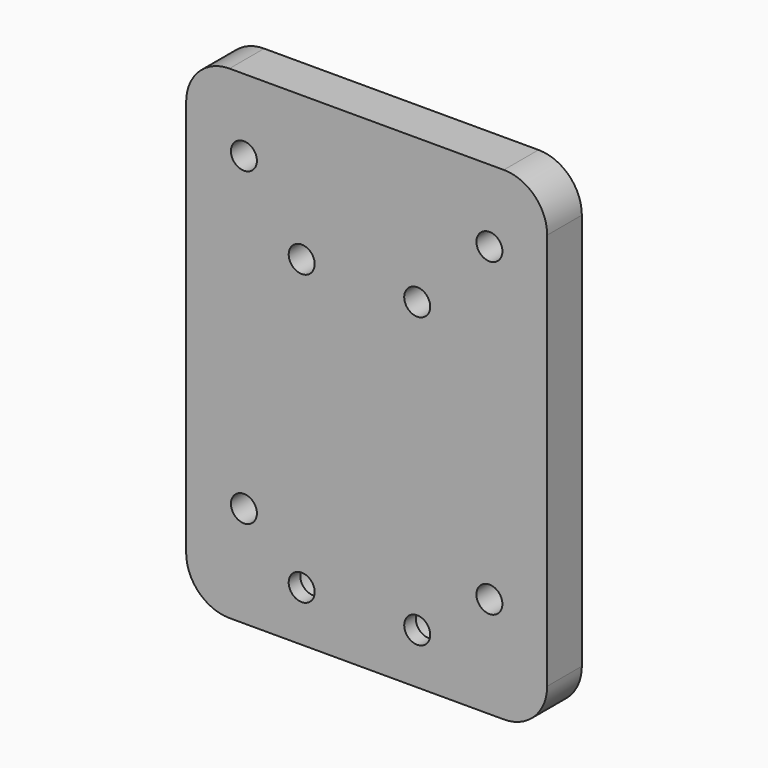
from build123d import *

# Parameters (mm, degrees)
CYLINDER135_R          = 1.8
CYLINDER135_DEPTH      = 34
CYLINDER135_ROLL_ANGLE = 90
CYLINDER134_R          = 1.8
CYLINDER134_DEPTH      = 34
CYLINDER134_ROLL_ANGLE = 90
CYLINDER137_R          = 3
CYLINDER137_DEPTH      = 34
CYLINDER137_ROLL_ANGLE = 90
CYLINDER136_R          = 3
CYLINDER136_DEPTH      = 34
CYLINDER136_ROLL_ANGLE = 90
CYLINDER123_R          = 1.8
CYLINDER123_DEPTH      = 34
CYLINDER123_ROLL_ANGLE = 90
CYLINDER122_R          = 1.8
CYLINDER122_DEPTH      = 34
CYLINDER122_ROLL_ANGLE = 90
CYLINDER125_R          = 1.8
CYLINDER125_DEPTH      = 34
CYLINDER125_ROLL_ANGLE = 90
CYLINDER124_R          = 1.8
CYLINDER124_DEPTH      = 34
CYLINDER124_ROLL_ANGLE = 90
CYLINDER127_R          = 3
CYLINDER127_DEPTH      = 34
CYLINDER127_ROLL_ANGLE = 90
CYLINDER126_R          = 3
CYLINDER126_DEPTH      = 34
CYLINDER126_ROLL_ANGLE = 90
CYLINDER129_R          = 3
CYLINDER129_DEPTH      = 34
CYLINDER129_ROLL_ANGLE = 90
CYLINDER128_R          = 3
CYLINDER128_DEPTH      = 34
CYLINDER128_ROLL_ANGLE = 90
CYLINDER131_R          = 1.8
CYLINDER131_DEPTH      = 34
CYLINDER131_ROLL_ANGLE = 90
CYLINDER130_R          = 1.8
CYLINDER130_DEPTH      = 34
CYLINDER130_ROLL_ANGLE = 90
CYLINDER133_R          = 1.8
CYLINDER133_DEPTH      = 34
CYLINDER133_ROLL_ANGLE = 90
CYLINDER132_R          = 1.8
CYLINDER132_DEPTH      = 34
CYLINDER132_ROLL_ANGLE = 90
BOX061_W               = 50
BOX061_H               = 6
BOX061_DEPTH           = 67
FILLET055_R            = 6


with BuildPart() as cilindro089:
    # Cylinder135 → Cylinder135 (new body)
    with BuildSketch(Plane.XY):
        Circle(CYLINDER135_R)
    extrude(amount=CYLINDER135_DEPTH)


with BuildPart() as cilindro089_1:
    # Cylinder135 roll: moved
    add(cilindro089.part.rotate(Axis((0, 0, 0), (1, 0, 0)), CYLINDER135_ROLL_ANGLE))


with BuildPart() as cilindro089_2:
    # Cylinder135 placement: moved
    add(cilindro089_1.part.moved(Location((24, -10, 64))))


with BuildPart() as fusion079:
    # Cylinder134 → Cylinder134 (new body)
    with BuildSketch(Plane.XY):
        Circle(CYLINDER134_R)
    extrude(amount=CYLINDER134_DEPTH)


with BuildPart() as fusion079_1:
    # Cylinder134 roll: moved
    add(fusion079.part.rotate(Axis((0, 0, 0), (1, 0, 0)), CYLINDER134_ROLL_ANGLE))


with BuildPart() as fusion079_2:
    # Cylinder134 placement: moved
    add(fusion079_1.part.moved(Location((40, -10, 64))))

    # Fusion079: union Cilindro089
    add(cilindro089_2.part)


with BuildPart() as fusion079_3:
    # Fusion079 placement: moved
    add(fusion079_2.part.moved(Location((0, 0, -8))))


with BuildPart() as cilindro091:
    # Cylinder137 → Cylinder137 (new body)
    with BuildSketch(Plane.XY):
        Circle(CYLINDER137_R)
    extrude(amount=CYLINDER137_DEPTH)


with BuildPart() as cilindro091_1:
    # Cylinder137 roll: moved
    add(cilindro091.part.rotate(Axis((0, 0, 0), (1, 0, 0)), CYLINDER137_ROLL_ANGLE))


with BuildPart() as cilindro091_2:
    # Cylinder137 placement: moved
    add(cilindro091_1.part.moved(Location((24, -10, 64))))


with BuildPart() as fusion080:
    # Cylinder136 → Cylinder136 (new body)
    with BuildSketch(Plane.XY):
        Circle(CYLINDER136_R)
    extrude(amount=CYLINDER136_DEPTH)


with BuildPart() as fusion080_1:
    # Cylinder136 roll: moved
    add(fusion080.part.rotate(Axis((0, 0, 0), (1, 0, 0)), CYLINDER136_ROLL_ANGLE))


with BuildPart() as fusion080_2:
    # Cylinder136 placement: moved
    add(fusion080_1.part.moved(Location((40, -10, 64))))

    # Fusion080: union Cilindro091
    add(cilindro091_2.part)


with BuildPart() as fusion080_3:
    # Fusion080 placement: moved
    add(fusion080_2.part.moved(Location((0, 23, -8))))


with BuildPart() as cilindro077:
    # Cylinder123 → Cylinder123 (new body)
    with BuildSketch(Plane.XY):
        Circle(CYLINDER123_R)
    extrude(amount=CYLINDER123_DEPTH)


with BuildPart() as cilindro077_1:
    # Cylinder123 roll: moved
    add(cilindro077.part.rotate(Axis((0, 0, 0), (1, 0, 0)), CYLINDER123_ROLL_ANGLE))


with BuildPart() as cilindro077_2:
    # Cylinder123 placement: moved
    add(cilindro077_1.part.moved(Location((24, -10, 64))))


with BuildPart() as fusion070:
    # Cylinder122 → Cylinder122 (new body)
    with BuildSketch(Plane.XY):
        Circle(CYLINDER122_R)
    extrude(amount=CYLINDER122_DEPTH)


with BuildPart() as fusion070_1:
    # Cylinder122 roll: moved
    add(fusion070.part.rotate(Axis((0, 0, 0), (1, 0, 0)), CYLINDER122_ROLL_ANGLE))


with BuildPart() as fusion070_2:
    # Cylinder122 placement: moved
    add(fusion070_1.part.moved(Location((40, -10, 64))))

    # Fusion070: union Cilindro077
    add(cilindro077_2.part)


with BuildPart() as fusion070_3:
    # Fusion070 placement: moved
    add(fusion070_2.part.moved(Location((0, 0, -8))))


with BuildPart() as cilindro079:
    # Cylinder125 → Cylinder125 (new body)
    with BuildSketch(Plane.XY):
        Circle(CYLINDER125_R)
    extrude(amount=CYLINDER125_DEPTH)


with BuildPart() as cilindro079_1:
    # Cylinder125 roll: moved
    add(cilindro079.part.rotate(Axis((0, 0, 0), (1, 0, 0)), CYLINDER125_ROLL_ANGLE))


with BuildPart() as cilindro079_2:
    # Cylinder125 placement: moved
    add(cilindro079_1.part.moved(Location((24, -10, 61))))


with BuildPart() as fusion072:
    # Cylinder124 → Cylinder124 (new body)
    with BuildSketch(Plane.XY):
        Circle(CYLINDER124_R)
    extrude(amount=CYLINDER124_DEPTH)


with BuildPart() as fusion072_1:
    # Cylinder124 roll: moved
    add(fusion072.part.rotate(Axis((0, 0, 0), (1, 0, 0)), CYLINDER124_ROLL_ANGLE))


with BuildPart() as fusion072_2:
    # Cylinder124 placement: moved
    add(fusion072_1.part.moved(Location((40, -10, 61))))

    # Fusion071: union Cilindro079
    add(cilindro079_2.part)


with BuildPart() as fusion072_3:
    # Fusion071 placement: moved
    add(fusion072_2.part.moved(Location((0, 0, 35))))

    # Fusion072: union Fusion070
    add(fusion070_3.part)


with BuildPart() as cilindro081:
    # Cylinder127 → Cylinder127 (new body)
    with BuildSketch(Plane.XY):
        Circle(CYLINDER127_R)
    extrude(amount=CYLINDER127_DEPTH)


with BuildPart() as cilindro081_1:
    # Cylinder127 roll: moved
    add(cilindro081.part.rotate(Axis((0, 0, 0), (1, 0, 0)), CYLINDER127_ROLL_ANGLE))


with BuildPart() as cilindro081_2:
    # Cylinder127 placement: moved
    add(cilindro081_1.part.moved(Location((24, -10, 64))))


with BuildPart() as fusion073:
    # Cylinder126 → Cylinder126 (new body)
    with BuildSketch(Plane.XY):
        Circle(CYLINDER126_R)
    extrude(amount=CYLINDER126_DEPTH)


with BuildPart() as fusion073_1:
    # Cylinder126 roll: moved
    add(fusion073.part.rotate(Axis((0, 0, 0), (1, 0, 0)), CYLINDER126_ROLL_ANGLE))


with BuildPart() as fusion073_2:
    # Cylinder126 placement: moved
    add(fusion073_1.part.moved(Location((40, -10, 64))))

    # Fusion073: union Cilindro081
    add(cilindro081_2.part)


with BuildPart() as cilindro083:
    # Cylinder129 → Cylinder129 (new body)
    with BuildSketch(Plane.XY):
        Circle(CYLINDER129_R)
    extrude(amount=CYLINDER129_DEPTH)


with BuildPart() as cilindro083_1:
    # Cylinder129 roll: moved
    add(cilindro083.part.rotate(Axis((0, 0, 0), (1, 0, 0)), CYLINDER129_ROLL_ANGLE))


with BuildPart() as cilindro083_2:
    # Cylinder129 placement: moved
    add(cilindro083_1.part.moved(Location((24, -10, 61))))


with BuildPart() as fusion075:
    # Cylinder128 → Cylinder128 (new body)
    with BuildSketch(Plane.XY):
        Circle(CYLINDER128_R)
    extrude(amount=CYLINDER128_DEPTH)


with BuildPart() as fusion075_1:
    # Cylinder128 roll: moved
    add(fusion075.part.rotate(Axis((0, 0, 0), (1, 0, 0)), CYLINDER128_ROLL_ANGLE))


with BuildPart() as fusion075_2:
    # Cylinder128 placement: moved
    add(fusion075_1.part.moved(Location((40, -10, 61))))

    # Fusion074: union Cilindro083
    add(cilindro083_2.part)


with BuildPart() as fusion075_3:
    # Fusion074 placement: moved
    add(fusion075_2.part.moved(Location((0, 0, 35))))

    # Fusion075: union Fusion073
    add(fusion073_2.part)


with BuildPart() as fusion075_4:
    # Fusion075 placement: moved
    add(fusion075_3.part.moved(Location((0, 25, 0))))


with BuildPart() as cilindro085:
    # Cylinder131 → Cylinder131 (new body)
    with BuildSketch(Plane.XY):
        Circle(CYLINDER131_R)
    extrude(amount=CYLINDER131_DEPTH)


with BuildPart() as cilindro085_1:
    # Cylinder131 roll: moved
    add(cilindro085.part.rotate(Axis((0, 0, 0), (1, 0, 0)), CYLINDER131_ROLL_ANGLE))


with BuildPart() as cilindro085_2:
    # Cylinder131 placement: moved
    add(cilindro085_1.part.moved(Location((16, -10, 63))))


with BuildPart() as fusion076:
    # Cylinder130 → Cylinder130 (new body)
    with BuildSketch(Plane.XY):
        Circle(CYLINDER130_R)
    extrude(amount=CYLINDER130_DEPTH)


with BuildPart() as fusion076_1:
    # Cylinder130 roll: moved
    add(fusion076.part.rotate(Axis((0, 0, 0), (1, 0, 0)), CYLINDER130_ROLL_ANGLE))


with BuildPart() as fusion076_2:
    # Cylinder130 placement: moved
    add(fusion076_1.part.moved(Location((50, -10, 63))))

    # Fusion076: union Cilindro085
    add(cilindro085_2.part)


with BuildPart() as cilindro087:
    # Cylinder133 → Cylinder133 (new body)
    with BuildSketch(Plane.XY):
        Circle(CYLINDER133_R)
    extrude(amount=CYLINDER133_DEPTH)


with BuildPart() as cilindro087_1:
    # Cylinder133 roll: moved
    add(cilindro087.part.rotate(Axis((0, 0, 0), (1, 0, 0)), CYLINDER133_ROLL_ANGLE))


with BuildPart() as cilindro087_2:
    # Cylinder133 placement: moved
    add(cilindro087_1.part.moved(Location((16, -10, 63))))


with BuildPart() as fusion078:
    # Cylinder132 → Cylinder132 (new body)
    with BuildSketch(Plane.XY):
        Circle(CYLINDER132_R)
    extrude(amount=CYLINDER132_DEPTH)


with BuildPart() as fusion078_1:
    # Cylinder132 roll: moved
    add(fusion078.part.rotate(Axis((0, 0, 0), (1, 0, 0)), CYLINDER132_ROLL_ANGLE))


with BuildPart() as fusion078_2:
    # Cylinder132 placement: moved
    add(fusion078_1.part.moved(Location((50, -10, 63))))

    # Fusion077: union Cilindro087
    add(cilindro087_2.part)


with BuildPart() as fusion078_3:
    # Fusion077 placement: moved
    add(fusion078_2.part.moved(Location((0, 0, 43))))

    # Fusion078: union Fusion076
    add(fusion076_2.part)


with BuildPart() as fillet055:
    # Box061 → Box061 (new body)
    with BuildSketch(Plane(origin=(8, -23, 49), x_dir=(1, 0, 0), z_dir=(0, 0, 1))):
        with Locations((25, 3)):
            Rectangle(BOX061_W, BOX061_H)
    extrude(amount=BOX061_DEPTH)

    # Cut140: cut Fusion078
    add(fusion078_3.part, mode=Mode.SUBTRACT)

    # Cut141: cut Fusion075
    add(fusion075_4.part, mode=Mode.SUBTRACT)

    # Cut142: cut Fusion072
    add(fusion072_3.part, mode=Mode.SUBTRACT)

    # Cut143: cut Fusion080
    add(fusion080_3.part, mode=Mode.SUBTRACT)

    # Cut144: cut Fusion079
    add(fusion079_3.part, mode=Mode.SUBTRACT)

    # Fillet055
    fillet055_edges = [fillet055.edges().sort_by_distance(p)[0] for p in [
        (8, -20, 116),
        (8, -20, 49),
        (58, -20, 116),
        (58, -20, 49),
    ]]
    fillet(fillet055_edges, radius=FILLET055_R)


solid = fillet055.part
